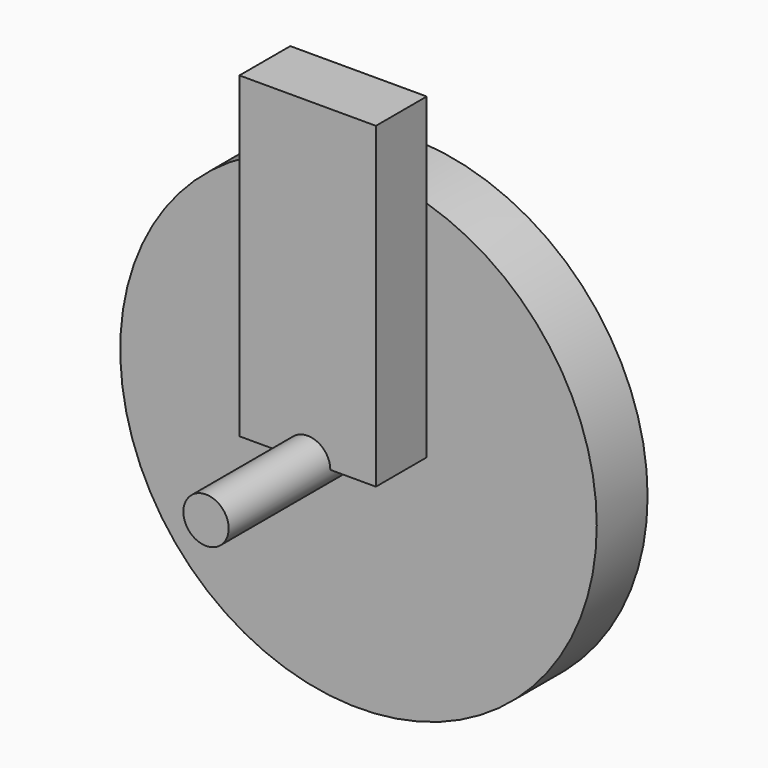
from build123d import *

# Parameters (mm, degrees)
F0_R     = 190.5
F1_DEPTH = 50.8
F2_R     = 11.061729
F3_DEPTH = 50.8
F4_W     = 109.096915
F4_H     = 254
F5_DEPTH = 50.8
F6_R     = 18.115742
F7_DEPTH = 152.4


with BuildPart() as f1:
    # F0 (on Front) → F1 (new body)
    with BuildSketch(Plane.XZ):
        with Locations((0, -132.514146)):
            Circle(F0_R)
    extrude(amount=F1_DEPTH)

    # F2 (on face) → F3 (cut)
    with BuildSketch(Plane.XZ.offset(50.8)):
        with Locations((0, -46.975374)):
            Circle(F2_R)
    extrude(amount=-F3_DEPTH, mode=Mode.SUBTRACT)

    # F4 (on face) → F5 (join)
    with BuildSketch(Plane.XZ.offset(50.8)):
        with Locations((-1e-06, -1.762878)):
            Rectangle(F4_W, F4_H)
    extrude(amount=F5_DEPTH)

    # F6 (on face) → F7 (join)
    with BuildSketch(Plane.XZ.offset(50.8)):
        with Locations((-2e-06, -128.762878)):
            Circle(F6_R)
    extrude(amount=F7_DEPTH)


solid = f1.part
